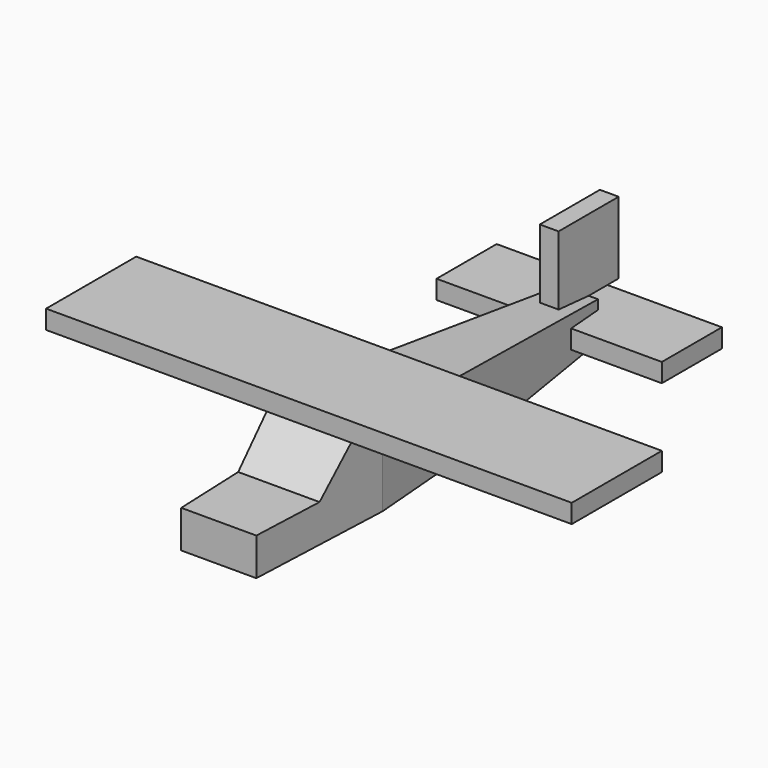
from build123d import *

# Parameters (mm, degrees)
F0_W          = 19.05
F0_H          = 12.7
F1_DEPTH      = 25.4
F1_DEPTH_BACK = 50.8
F3_DEPTH      = 12.7
F5_DEPTH      = 12.7
F7_DEPTH      = 7.14475
F7_DEPTH_BACK = 7.14475
F8_W          = 19.0499999978
F8_H          = 3.175
F9_DEPTH      = 44.45
F10_W         = 38.1
F10_H         = 12.7
F11_DEPTH     = 1.5875
F13_DEPTH     = 1.5875


with BuildPart() as f1:
    # F0 (on Front) → F1 (new body, two sides)
    with BuildSketch(Plane.XZ) as f1_sk:
        Rectangle(F0_W, F0_H)
    extrude(amount=F1_DEPTH)
    extrude(f1_sk.sketch, amount=-F1_DEPTH_BACK)

    # F2 (on face) → F3 (intersect, through all)
    with BuildSketch(Plane.XY.offset(6.35)):
        Polygon((-3.175, 50.8), (-9.525, -25.4), (0, -25.4), (9.525, -25.4), (3.175, 50.8), (0, 50.8), align=None)
    extrude(amount=-F3_DEPTH, mode=Mode.INTERSECT)

    # F4 (on face) → F5 (cut, through all)
    with BuildSketch(Plane.XY.offset(6.35)):
        Polygon((-6.35, -25.4), (-7.4083333333, 0), (-9.525, -25.4), align=None)
        Polygon((7.4083333333, 0), (6.35, -25.4), (9.525, -25.4), align=None)
    extrude(amount=-F5_DEPTH, mode=Mode.SUBTRACT)

    # F6 (on Right) → F7 (cut, two sides)
    with BuildSketch(Plane.YZ) as f7_sk:
        Polygon((-12.7, 0), (-6.35, 6.35), (-25.4, 6.35), (-25.4, 0), align=None)
        Polygon((50.8, 6.35), (12.7, 6.35), (50.8, 3.175), align=None)
        Polygon((50.8, -3.175), (12.7, -6.35), (50.8, -6.35), align=None)
    extrude(amount=-F7_DEPTH, mode=Mode.SUBTRACT)
    extrude(f7_sk.sketch, amount=F7_DEPTH_BACK, mode=Mode.SUBTRACT)


with BuildPart() as f9:
    # F8 (on Right) → F9 (new body, symmetric)
    with BuildSketch(Plane.YZ):
        with Locations((3.1749999989, 7.9375)):
            Rectangle(F8_W, F8_H)
    extrude(amount=F9_DEPTH, both=True)


with BuildPart() as f11:
    # F10 (on Top) → F11 (new body, symmetric)
    with BuildSketch(Plane.XY):
        with Locations((-2e-10, 50.8)):
            Rectangle(F10_W, F10_H)
    extrude(amount=F11_DEPTH, both=True)


with BuildPart() as f13:
    # F12 (on Right) → F13 (new body, symmetric)
    with BuildSketch(Plane.YZ):
        Polygon((44.45, -3.7041666667), (50.8, -3.175), (50.8, 3.175), (57.15, 3.175), (57.15, 15.3458333333), (50.8, 15.3458333333), (44.45, 15.3458333333), align=None)
    extrude(amount=F13_DEPTH, both=True)


solid = Compound([f1.part, f9.part, f11.part, f13.part])
